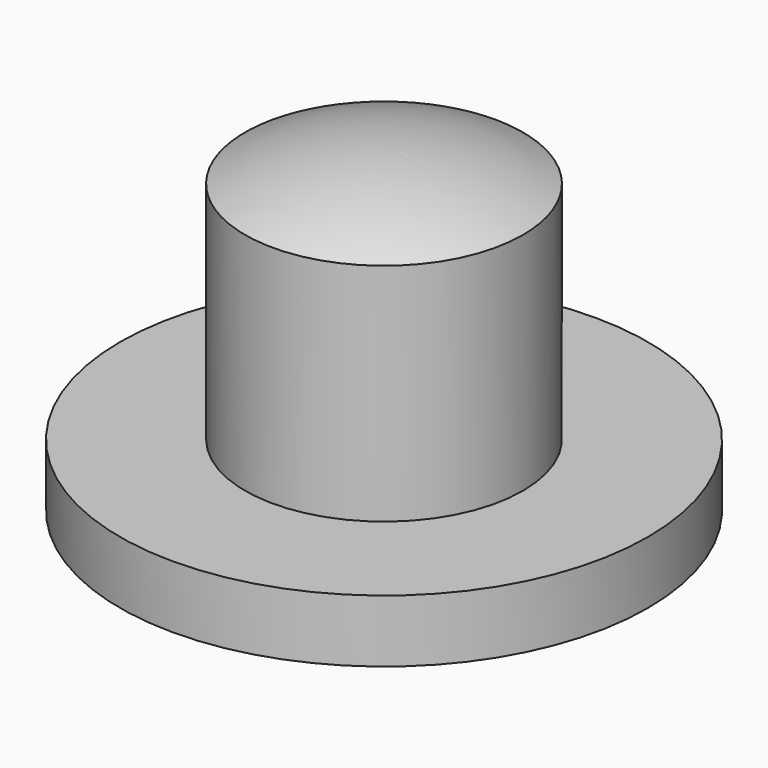
from build123d import *

# Parameters (mm, degrees)
CYLINDER001_R     = 19
CYLINDER001_DEPTH = 4.5
CYLINDER_R        = 10
CYLINDER_DEPTH    = 27


with BuildPart() as cilindro001:
    # Cylinder001 → Cylinder001 (new body)
    with BuildSketch(Plane.XY):
        Circle(CYLINDER001_R)
    extrude(amount=CYLINDER001_DEPTH)


with BuildPart() as cilindro:
    # Cylinder → Cylinder (new body)
    with BuildSketch(Plane.XY):
        Circle(CYLINDER_R)
    extrude(amount=CYLINDER_DEPTH)


with BuildPart() as fusion:
    # Sphere → Sphere (revolve)
    with BuildSketch(Plane.XZ):
        with BuildLine():
            ThreePointArc((23, 0), (16.263456, 16.263456), (0, 23))
            Line((0, 23), (0, 0))
            Line((0, 0), (23, 0))
        make_face()
    revolve(axis=Axis((0, 0, 0), (0, 0, 1)))

    # Common: intersect Cilindro
    add(cilindro.part, mode=Mode.INTERSECT)

    # Fusion: union Cilindro001
    add(cilindro001.part)


solid = fusion.part
